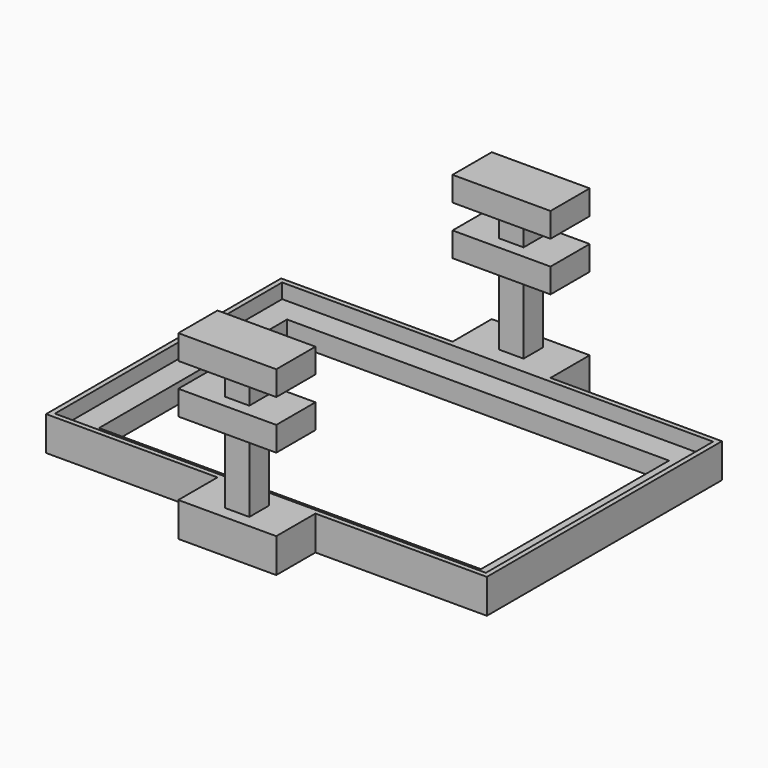
from build123d import *

# Parameters (mm, degrees)
PAD_DEPTH       = 7
SKETCH005_W     = 88
SKETCH005_H     = 58
POCKET_DEPTH    = 3
SKETCH_W        = 78
SKETCH_H        = 48
POCKET001_DEPTH = 5
SKETCH006_W     = 5
SKETCH006_H     = 5
PAD001_DEPTH    = 25
SKETCH007_W     = 5
SKETCH007_H     = 5
PAD002_DEPTH    = 25
SKETCH008_W     = 20
SKETCH008_H     = 10
PAD003_DEPTH    = 5
SKETCH009_W     = 20
SKETCH009_H     = 10
PAD004_DEPTH    = 5
PAD006_DEPTH    = 7
SKETCH010_W     = 88
SKETCH010_H     = 58
POCKET003_DEPTH = 3
SKETCH011_W     = 78
SKETCH011_H     = 48
POCKET002_DEPTH = 5
SKETCH016_W     = 5
SKETCH016_H     = 5
PAD007_DEPTH    = 15
SKETCH014_W     = 5
SKETCH014_H     = 5
PAD005_DEPTH    = 15
SKETCH015_W     = 20
SKETCH015_H     = 10
PAD008_DEPTH    = 5
SKETCH013_W     = 20
SKETCH013_H     = 10
PAD009_DEPTH    = 5
PAD011_DEPTH    = 7
SKETCH017_W     = 88
SKETCH017_H     = 58
POCKET005_DEPTH = 3
SKETCH018_W     = 78
SKETCH018_H     = 48
POCKET004_DEPTH = 5


with BuildPart() as mitte:
    # Sketch004 → Pad (new body)
    with BuildSketch(Plane.XY):
        Polygon((45, 30), (45, -30), (10, -30), (10, -40), (-10, -40), (-10, -30), (-45, -30), (-45, 30), (-10, 30), (-10, 40), (10, 40), (10, 30), align=None)
    extrude(amount=PAD_DEPTH)

    # Sketch005 (on Face14 of Pad) → Pocket (cut)
    with BuildSketch(Plane.XY.offset(7)):
        Rectangle(SKETCH005_W, SKETCH005_H)
    extrude(amount=-POCKET_DEPTH, mode=Mode.SUBTRACT)

    # Sketch (on Face19 of Pocket) → Pocket001 (cut)
    with BuildSketch(Plane.XY.offset(4)):
        Rectangle(SKETCH_W, SKETCH_H)
    extrude(amount=-POCKET001_DEPTH, mode=Mode.SUBTRACT)

    # Sketch006 (on Face5 of Pocket001) → Pad001 (join)
    with BuildSketch(Plane.XY.offset(7)):
        with Locations((0, 35)):
            Rectangle(SKETCH006_W, SKETCH006_H)
    extrude(amount=PAD001_DEPTH)

    # Sketch007 (on Face5 of Pocket001) → Pad002 (join)
    with BuildSketch(Plane.XY.offset(7)):
        with Locations((0, -35)):
            Rectangle(SKETCH007_W, SKETCH007_H)
    extrude(amount=PAD002_DEPTH)

    # Sketch008 (on Face33 of Pad002) → Pad003 (join)
    with BuildSketch(Plane.XY.offset(32)):
        with Locations((0, -35)):
            Rectangle(SKETCH008_W, SKETCH008_H)
    extrude(amount=PAD003_DEPTH)

    # Sketch009 (on Face33 of Pad002) → Pad004 (join)
    with BuildSketch(Plane.XY.offset(32)):
        with Locations((0, 35)):
            Rectangle(SKETCH009_W, SKETCH009_H)
    extrude(amount=PAD004_DEPTH)


with BuildPart() as unten:
    # Sketch012 → Pad006 (new body)
    with BuildSketch(Plane.XY):
        Polygon((45, 30), (45, -30), (10, -30), (10, -40), (-10, -40), (-10, -30), (-45, -30), (-45, 30), (-10, 30), (-10, 40), (10, 40), (10, 30), align=None)
    extrude(amount=PAD006_DEPTH)

    # Sketch010 (on Face14 of Pad006) → Pocket003 (cut)
    with BuildSketch(Plane.XY.offset(7)):
        Rectangle(SKETCH010_W, SKETCH010_H)
    extrude(amount=-POCKET003_DEPTH, mode=Mode.SUBTRACT)

    # Sketch011 (on Face19 of Pocket003) → Pocket002 (cut)
    with BuildSketch(Plane.XY.offset(4)):
        Rectangle(SKETCH011_W, SKETCH011_H)
    extrude(amount=-POCKET002_DEPTH, mode=Mode.SUBTRACT)

    # Sketch016 (on Face5 of Pocket002) → Pad007 (join)
    with BuildSketch(Plane.XY.offset(7)):
        with Locations((0, 35)):
            Rectangle(SKETCH016_W, SKETCH016_H)
    extrude(amount=PAD007_DEPTH)

    # Sketch014 (on Face5 of Pocket002) → Pad005 (join)
    with BuildSketch(Plane.XY.offset(7)):
        with Locations((0, -35)):
            Rectangle(SKETCH014_W, SKETCH014_H)
    extrude(amount=PAD005_DEPTH)

    # Sketch015 (on Face33 of Pad005) → Pad008 (join)
    with BuildSketch(Plane.XY.offset(22)):
        with Locations((0, -35)):
            Rectangle(SKETCH015_W, SKETCH015_H)
    extrude(amount=PAD008_DEPTH)

    # Sketch013 (on Face33 of Pad005) → Pad009 (join)
    with BuildSketch(Plane.XY.offset(22)):
        with Locations((0, 35)):
            Rectangle(SKETCH013_W, SKETCH013_H)
    extrude(amount=PAD009_DEPTH)


with BuildPart() as oben:
    # Sketch019 → Pad011 (new body)
    with BuildSketch(Plane.XY):
        Polygon((45, 30), (45, -30), (10, -30), (10, -40), (-10, -40), (-10, -30), (-45, -30), (-45, 30), (-10, 30), (-10, 40), (10, 40), (10, 30), align=None)
    extrude(amount=PAD011_DEPTH)

    # Sketch017 (on Face14 of Pad011) → Pocket005 (cut)
    with BuildSketch(Plane.XY.offset(7)):
        Rectangle(SKETCH017_W, SKETCH017_H)
    extrude(amount=-POCKET005_DEPTH, mode=Mode.SUBTRACT)

    # Sketch018 (on Face19 of Pocket005) → Pocket004 (cut)
    with BuildSketch(Plane.XY.offset(4)):
        Rectangle(SKETCH018_W, SKETCH018_H)
    extrude(amount=-POCKET004_DEPTH, mode=Mode.SUBTRACT)


solid = Compound([mitte.part, unten.part, oben.part])
